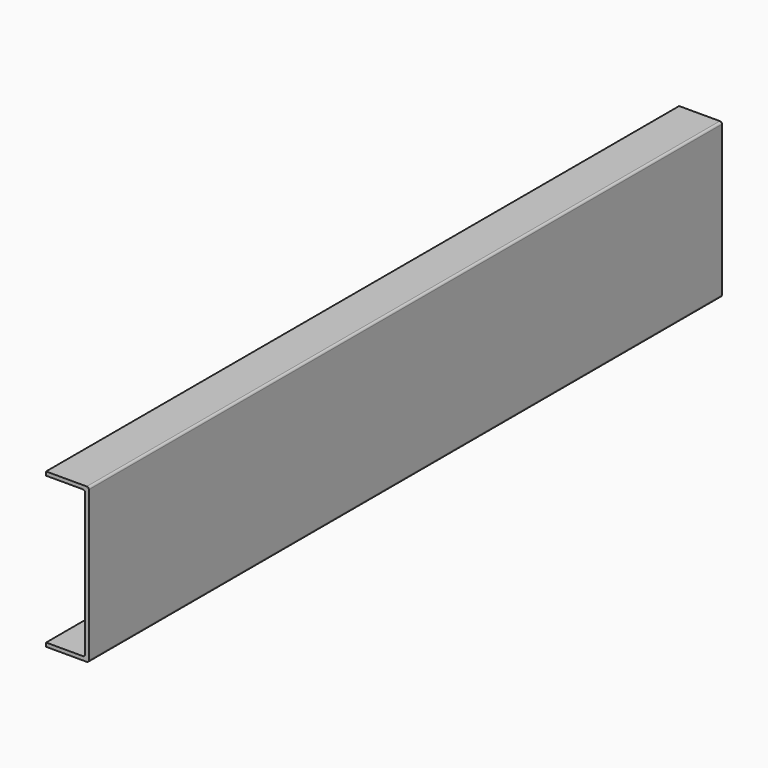
from build123d import *

# Parameters (mm, degrees)
F3_DEPTH = 943


with BuildPart() as f3:
    # F2 (on face) → F3 (new body, through all)
    with BuildSketch(Plane.XZ.offset(471.5)):
        with BuildLine():
            ThreePointArc((-2.5, -92), (-0.732233, -91.267767), (0, -89.5))
            Line((0, -89.5), (0, 89.5))
            ThreePointArc((0, 89.5), (-0.732233, 91.267767), (-2.5, 92))
            Line((-2.5, 92), (-51, 92))
            Line((-51, 92), (-51, 87.5))
            Line((-51, 87.5), (-7, 87.5))
            ThreePointArc((-7, 87.5), (-5.232233, 86.767767), (-4.5, 85))
            Line((-4.5, 85), (-4.5, -85))
            ThreePointArc((-4.5, -85), (-5.232233, -86.767767), (-7, -87.5))
            Line((-7, -87.5), (-51, -87.5))
            Line((-51, -87.5), (-51, -92))
            Line((-51, -92), (-2.5, -92))
        make_face()
    extrude(amount=-F3_DEPTH)


solid = f3.part
